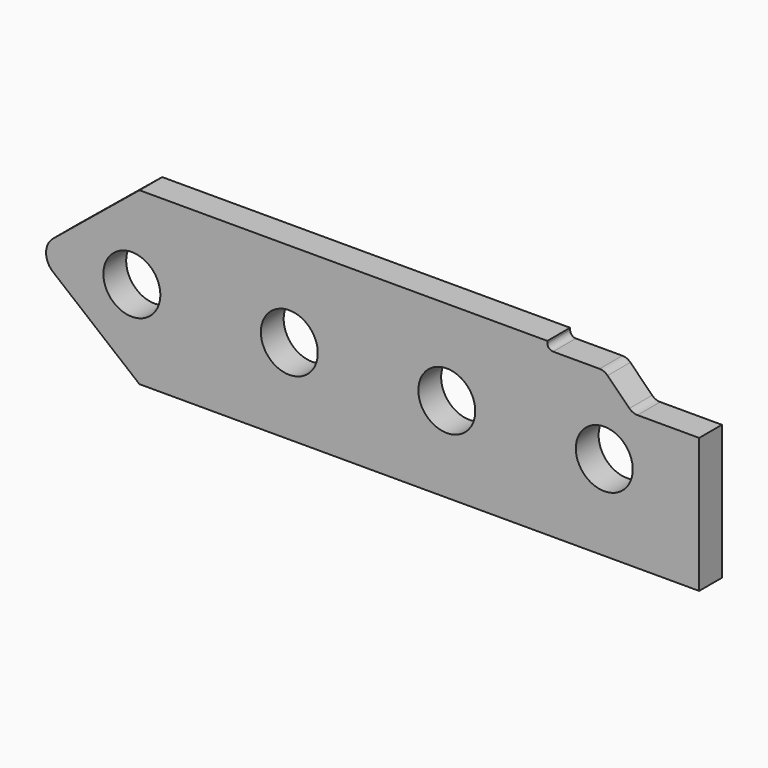
from build123d import *

# Parameters (mm, degrees)
F1_DEPTH = 15


with BuildPart() as f1:
    # F0 (on Front) → F1 (new body)
    with BuildSketch(Plane.XZ):
        with BuildLine():
            Line((14.5, 0), (0, 0))
            Line((0, 0), (-38.5, 0))
            ThreePointArc((-38.5, 0), (-53.5, -15), (-68.5, 0))
            Line((-68.5, 0), (-121.5, 0))
            ThreePointArc((-121.5, 0), (-136.5, -15), (-151.5, 0))
            Line((-151.5, 0), (-181.708144, 0))
            ThreePointArc((-181.708144, 0), (-180.744841, -4.282302), (-178.040522, -7.739573))
            Line((-178.040522, -7.739573), (-132.5, -45))
            Line((-132.5, -45), (162.5, -45))
            Line((162.5, -45), (162.5, 0))
            Line((162.5, 0), (127.5, 0))
            ThreePointArc((127.5, 0), (112.5, -15), (97.5, 0))
            Line((97.5, 0), (44.5, 0))
            ThreePointArc((44.5, 0), (29.5, -15), (14.5, 0))
        make_face()
        with BuildLine():
            Line((-38.5, 0), (0, 0))
            Line((0, 0), (14.5, 0))
            ThreePointArc((14.5, 0), (29.5, 15), (44.5, 0))
            Line((44.5, 0), (97.5, 0))
            ThreePointArc((97.5, 0), (112.5, 15), (127.5, 0))
            Line((127.5, 0), (162.5, 0))
            Line((162.5, 0), (162.5, 26))
            Line((162.5, 26), (129.985281, 26))
            ThreePointArc((129.985281, 26), (127.689181, 26.456723), (125.742641, 27.757359))
            Line((125.742641, 27.757359), (114.257359, 39.242641))
            ThreePointArc((114.257359, 39.242641), (112.310819, 40.543277), (110.014719, 41))
            Line((110.014719, 41), (85.5, 41))
            ThreePointArc((85.5, 41), (83.37868, 41.87868), (82.5, 44))
            Line((82.5, 44), (82.5, 45))
            Line((82.5, 45), (-132.5, 45))
            Line((-132.5, 45), (-178.040522, 7.739573))
            ThreePointArc((-178.040522, 7.739573), (-180.744841, 4.282302), (-181.708144, 0))
            Line((-181.708144, 0), (-151.5, 0))
            ThreePointArc((-151.5, 0), (-136.5, 15), (-121.5, 0))
            Line((-121.5, 0), (-68.5, 0))
            ThreePointArc((-68.5, 0), (-53.5, 15), (-38.5, 0))
        make_face()
    extrude(amount=F1_DEPTH)


solid = f1.part
